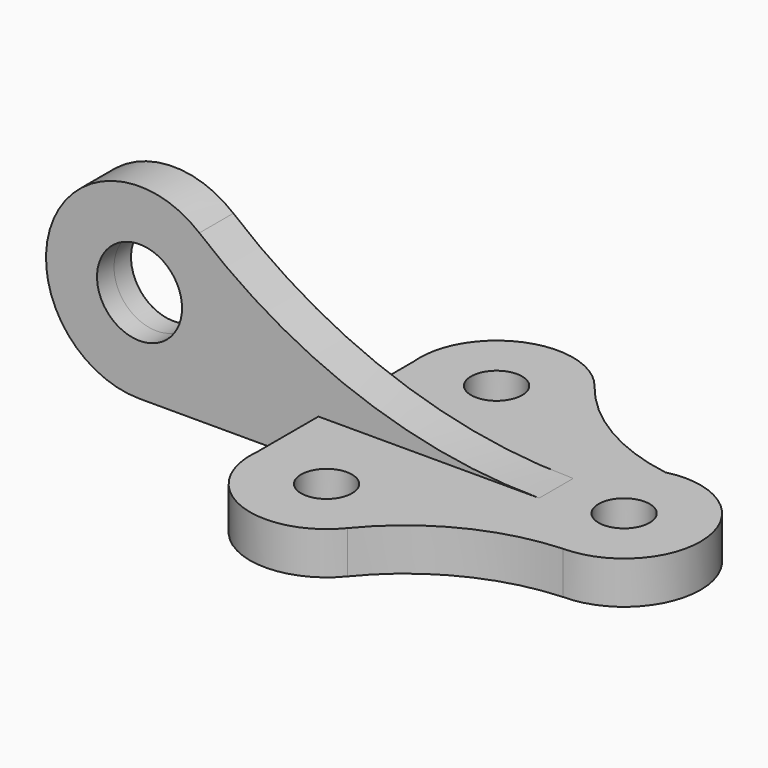
from build123d import *

# Parameters (mm, degrees)
F0_R          = 6
F1_DEPTH      = 10
F2_R          = 10
F3_DEPTH      = 5
F3_DEPTH_BACK = 5


with BuildPart() as f1:
    # F0 (on Top) → F1 (new body)
    with BuildSketch(Plane.XY):
        with BuildLine():
            ThreePointArc((-4.281923, 17.483282), (-21.811589, 23.792235), (-35.814763, 36.08057))
            ThreePointArc((-35.814763, 36.08057), (-55.023903, 42.284687), (-67.914677, 26.750528))
            Line((-67.914677, 26.750528), (-67.914677, 23.249472))
            Line((-67.914677, 23.249472), (-67.914677, -23.249472))
            Line((-67.914677, -23.249472), (-67.914677, -26.750528))
            ThreePointArc((-67.914677, -26.750528), (-55.196763, -42.233504), (-36.039548, -36.362472))
            ThreePointArc((-36.039548, -36.362472), (-19.959456, -23.374272), (0, -18))
            ThreePointArc((0, -18), (17.729085, -3.111198), (6.128744, 16.924494))
            ThreePointArc((6.128744, 16.924494), (0.908806, 16.931802), (-4.281923, 17.483282))
        make_face()
        with Locations((-50, -25)):
            Circle(F0_R, mode=Mode.SUBTRACT)
        Circle(F0_R, mode=Mode.SUBTRACT)
        with Locations((-50, 25)):
            Circle(F0_R, mode=Mode.SUBTRACT)
        with BuildLine():
            Line((-67.914677, 23.249472), (-67.914677, 26.750528))
            ThreePointArc((-67.914677, 26.750528), (-68, 25), (-67.914677, 23.249472))
        make_face()
        with BuildLine():
            ThreePointArc((6.128744, 16.924494), (0.964753, 17.974127), (-4.281923, 17.483282))
            ThreePointArc((-4.281923, 17.483282), (0.908806, 16.931802), (6.128744, 16.924494))
        make_face()
        with BuildLine():
            Line((-67.914677, -26.750528), (-67.914677, -23.249472))
            ThreePointArc((-67.914677, -23.249472), (-68, -25), (-67.914677, -26.750528))
        make_face()
    extrude(amount=F1_DEPTH)

    # F2 (on Front) → F3 (join, two sides)
    with BuildSketch(Plane.XZ) as f3_sk:
        with BuildLine():
            Line((-110, 0), (-46.425153, 0))
            Line((-46.425153, 0), (-9.930641, 0))
            Line((-9.930641, 0), (-15.978726, 10))
            ThreePointArc((-15.978726, 10), (-58.487228, 17.449895), (-95.928789, 38.911565))
            ThreePointArc((-95.928789, 38.911565), (-130.688818, 29.481496), (-110, 0))
        make_face()
        with Locations((-110, 22)):
            Circle(F2_R, mode=Mode.SUBTRACT)
    extrude(amount=F3_DEPTH)
    extrude(f3_sk.sketch, amount=-F3_DEPTH_BACK)


solid = f1.part
